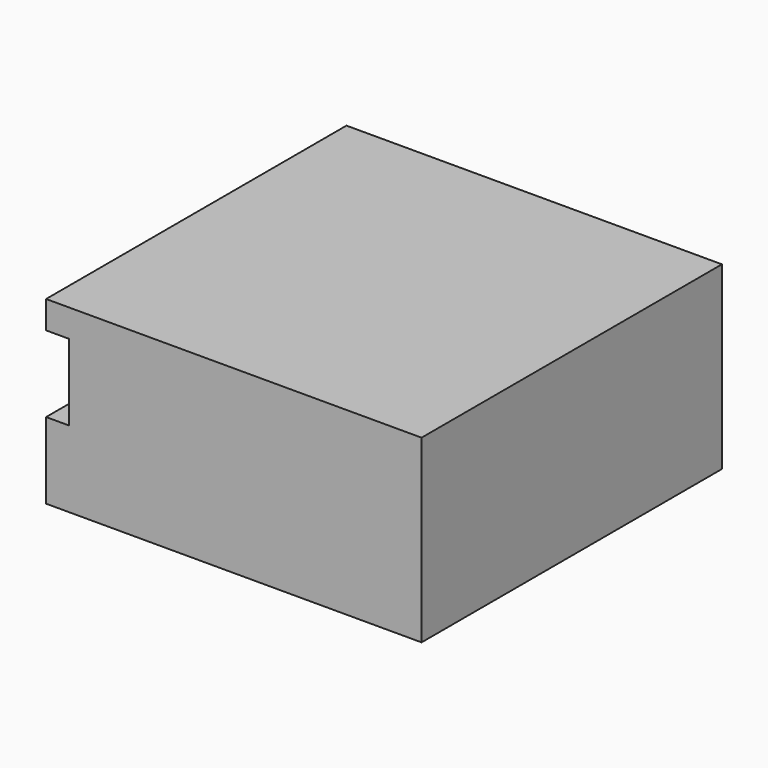
from build123d import *

# Parameters (mm, degrees)
F0_W      = 5000
F0_H      = 5000
F1_DEPTH  = 2400
F2_T      = -304.8
F3_W      = 1800
F3_H      = 2032
F2_FACE_W = 4390.4
F2_FACE_H = 2095.2
F4_DEPTH  = 457.2
F5_W      = 1200
F5_H      = 1016
F6_DEPTH  = 457.2
F7_W      = 4542.8
F7_H      = 1016
F8_DEPTH  = 304.8


with BuildPart() as f1:
    # F0 (on Top) → F1 (new body)
    with BuildSketch(Plane.XY):
        Rectangle(F0_W, F0_H)
    extrude(amount=F1_DEPTH)

    # F2
    f2_openings = [f1.faces().sort_by_distance(p)[0] for p in [
        (0, 0, 0),
    ]]
    offset(amount=F2_T, openings=f2_openings)

    # F3 (on face) + F2_face (on face) → F4 (cut)
    with BuildSketch(Plane(origin=(0, 2500, 0), x_dir=(-1, 0, 0), z_dir=(0, 1, 0))):
        with Locations((400, 1016)):
            Rectangle(F3_W, F3_H)
    with BuildSketch(Plane(origin=(0, 2195.2, 1047.6), x_dir=(1, 0, 0), z_dir=(0, -1, 0))):
        Rectangle(F2_FACE_W, F2_FACE_H)
    extrude(amount=-F4_DEPTH, dir=(0, 1, 0), mode=Mode.SUBTRACT)

    # F5 (on face) → F6 (cut)
    with BuildSketch(Plane(origin=(0, 2500, 0), x_dir=(-1, 0, 0), z_dir=(0, 1, 0))):
        with Locations((1900, 1524)):
            Rectangle(F5_W, F5_H)
    extrude(amount=-F6_DEPTH, mode=Mode.SUBTRACT)

    # F7 (on face) → F8 (cut)
    with BuildSketch(Plane(origin=(-2500, 0, 0), x_dir=(0, -1, 0), z_dir=(-1, 0, 0))):
        with Locations((228.6, 1524)):
            Rectangle(F7_W, F7_H)
    extrude(amount=-F8_DEPTH, mode=Mode.SUBTRACT)


solid = f1.part
